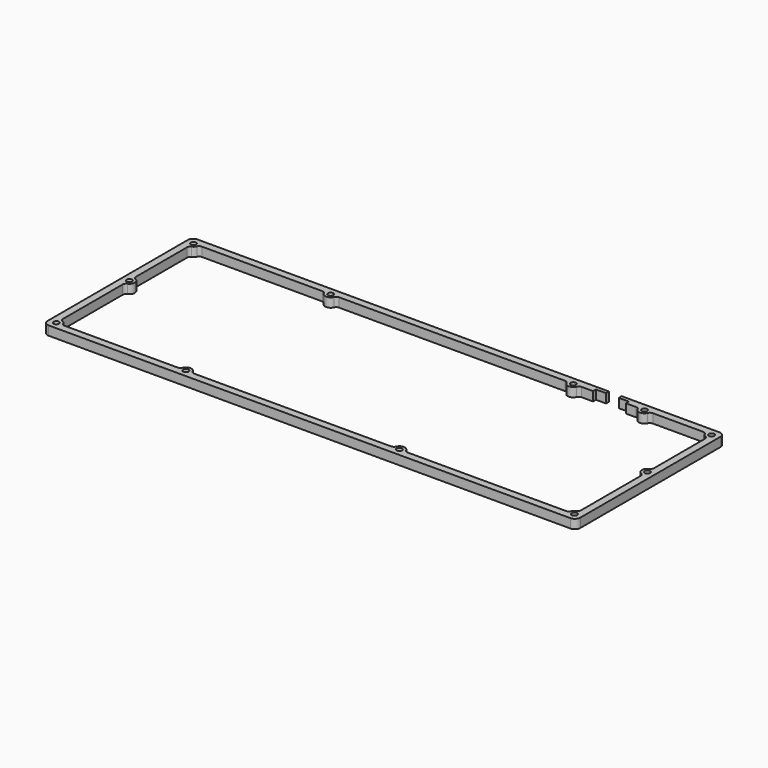
from build123d import *

# Parameters (mm, degrees)
F1_DEPTH = 5
F2_R     = 1.1
F3_DEPTH = 5.001
F4_R     = 1.5
F5_DEPTH = 5.001
F7_DEPTH = 5.001


with BuildPart() as f1:
    # F0 (on Top) → F1 (new body)
    with BuildSketch(Plane.XY):
        with BuildLine():
            ThreePointArc((146, 48), (145.12132, 50.12132), (143, 51))
            Line((143, 51), (-143, 51))
            ThreePointArc((-143, 51), (-145.12132, 50.12132), (-146, 48))
            Line((-146, 48), (-146, -48))
            ThreePointArc((-146, -48), (-145.12132, -50.12132), (-143, -51))
            Line((-143, -51), (143, -51))
            ThreePointArc((143, -51), (145.12132, -50.12132), (146, -48))
            Line((146, -48), (146, 48))
        make_face()
    extrude(amount=F1_DEPTH)

    # F2 (on face) → F3 (cut, through all)
    with BuildSketch(Plane.XY.offset(5)):
        with Locations((-142, 47)):
            Circle(F2_R)
        with Locations((142, 47)):
            Circle(F2_R)
        with Locations((-66.825193, 47)):
            Circle(F2_R)
        with Locations((66.174807, 47)):
            Circle(F2_R)
        with Locations((-142, -47)):
            Circle(F2_R)
        with Locations((142, -47)):
            Circle(F2_R)
        with Locations((-71, -47)):
            Circle(F2_R)
        with Locations((46, -47)):
            Circle(F2_R)
        with Locations((142, 3)):
            Circle(F2_R)
        with Locations((-142, 3)):
            Circle(F2_R)
    extrude(amount=-F3_DEPTH, mode=Mode.SUBTRACT)

    # F4 (on face) → F5 (cut, through all)
    with BuildSketch(Plane.XY.offset(5)):
        with BuildLine():
            Line((-71.407769, 47), (-137.417424, 47))
            ThreePointArc((-137.417424, 47), (-138.512869, 46.67332), (-139.250455, 45.8))
            ThreePointArc((-139.250455, 45.8), (-139.87868, 44.87868), (-140.8, 44.250455))
            ThreePointArc((-140.8, 44.250455), (-141.67332, 43.512869), (-142, 42.417424))
            Line((-142, 42.417424), (-142, 7.582576))
            ThreePointArc((-142, 7.582576), (-141.67332, 6.487131), (-140.8, 5.749545))
            ThreePointArc((-140.8, 5.749545), (-139, 3), (-140.8, 0.250455))
            ThreePointArc((-140.8, 0.250455), (-141.67332, -0.487131), (-142, -1.582576))
            Line((-142, -1.582576), (-142, -42.417424))
            ThreePointArc((-142, -42.417424), (-141.67332, -43.512869), (-140.8, -44.250455))
            ThreePointArc((-140.8, -44.250455), (-139.87868, -44.87868), (-139.250455, -45.8))
            ThreePointArc((-139.250455, -45.8), (-138.512869, -46.67332), (-137.417424, -47))
            Line((-137.417424, -47), (-75.582576, -47))
            ThreePointArc((-75.582576, -47), (-74.487131, -46.67332), (-73.749545, -45.8))
            ThreePointArc((-73.749545, -45.8), (-71, -44), (-68.250455, -45.8))
            ThreePointArc((-68.250455, -45.8), (-67.512869, -46.67332), (-66.417424, -47))
            Line((-66.417424, -47), (41.417424, -47))
            ThreePointArc((41.417424, -47), (42.512869, -46.67332), (43.250455, -45.8))
            ThreePointArc((43.250455, -45.8), (46, -44), (48.749545, -45.8))
            ThreePointArc((48.749545, -45.8), (49.487131, -46.67332), (50.582576, -47))
            Line((50.582576, -47), (137.417424, -47))
            ThreePointArc((137.417424, -47), (138.512869, -46.67332), (139.250455, -45.8))
            ThreePointArc((139.250455, -45.8), (139.87868, -44.87868), (140.8, -44.250455))
            ThreePointArc((140.8, -44.250455), (141.67332, -43.512869), (142, -42.417424))
            Line((142, -42.417424), (142, -1.582576))
            ThreePointArc((142, -1.582576), (141.67332, -0.487131), (140.8, 0.250455))
            ThreePointArc((140.8, 0.250455), (139, 3), (140.8, 5.749545))
            ThreePointArc((140.8, 5.749545), (141.67332, 6.487131), (142, 7.582576))
            Line((142, 7.582576), (142, 42.417424))
            ThreePointArc((142, 42.417424), (141.67332, 43.512869), (140.8, 44.250455))
            ThreePointArc((140.8, 44.250455), (139.87868, 44.87868), (139.250455, 45.8))
            ThreePointArc((139.250455, 45.8), (138.512869, 46.67332), (137.417424, 47))
            Line((137.417424, 47), (109.757383, 47))
            ThreePointArc((109.757383, 47), (108.661938, 46.67332), (107.924352, 45.8))
            ThreePointArc((107.924352, 45.8), (105.174807, 44), (102.425262, 45.8))
            ThreePointArc((102.425262, 45.8), (101.687676, 46.67332), (100.592231, 47))
            Line((100.592231, 47), (70.757383, 47))
            ThreePointArc((70.757383, 47), (69.661938, 46.67332), (68.924352, 45.8))
            ThreePointArc((68.924352, 45.8), (66.174807, 44), (63.425262, 45.8))
            ThreePointArc((63.425262, 45.8), (62.687676, 46.67332), (61.592231, 47))
            Line((61.592231, 47), (-62.242617, 47))
            ThreePointArc((-62.242617, 47), (-63.338062, 46.67332), (-64.075648, 45.8))
            ThreePointArc((-64.075648, 45.8), (-66.825193, 44), (-69.574738, 45.8))
            ThreePointArc((-69.574738, 45.8), (-70.312324, 46.67332), (-71.407769, 47))
        make_face()
        with Locations((-142, 47)):
            Circle(F4_R)
        with Locations((-66.825193, 47)):
            Circle(F4_R)
        with Locations((-142, 3)):
            Circle(F4_R)
        with Locations((-142, -47)):
            Circle(F4_R)
        with Locations((66.174807, 47)):
            Circle(F4_R)
        with Locations((142, 3)):
            Circle(F4_R)
        with Locations((142, -47)):
            Circle(F4_R)
        with Locations((46, -47)):
            Circle(F4_R)
        with Locations((-71, -47)):
            Circle(F4_R)
        with Locations((142, 47)):
            Circle(F4_R)
        with Locations((105.174807, 47)):
            Circle(F4_R)
    extrude(amount=-F5_DEPTH, mode=Mode.SUBTRACT)

    # F6 (on face) → F7 (cut, through all)
    with BuildSketch(Plane.XY.offset(5)):
        Polygon((89.5, 51), (82.5, 51), (82.5, 49), (77, 49), (77, 47), (95, 47), (95, 49), (89.5, 49), align=None)
    extrude(amount=-F7_DEPTH, mode=Mode.SUBTRACT)


solid = f1.part
